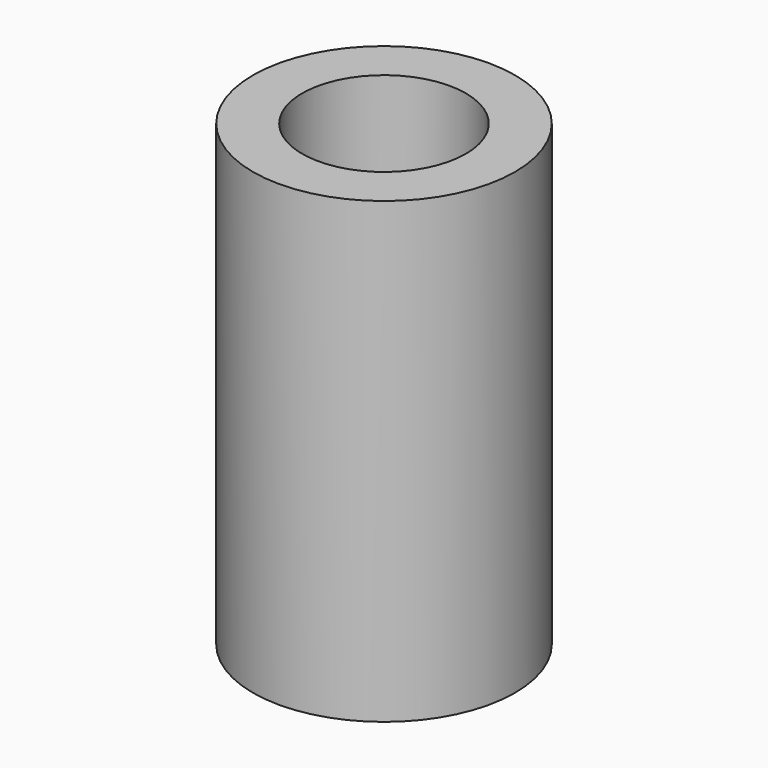
from build123d import *

# Parameters (mm, degrees)
SKETCH_R   = 4
SKETCH_R_2 = 2.5
PAD_DEPTH  = 14


with BuildPart() as part:
    # Sketch → Pad (new body)
    with BuildSketch(Plane.XY):
        Circle(SKETCH_R)
        Circle(SKETCH_R_2, mode=Mode.SUBTRACT)
    extrude(amount=PAD_DEPTH)


solid = part.part
